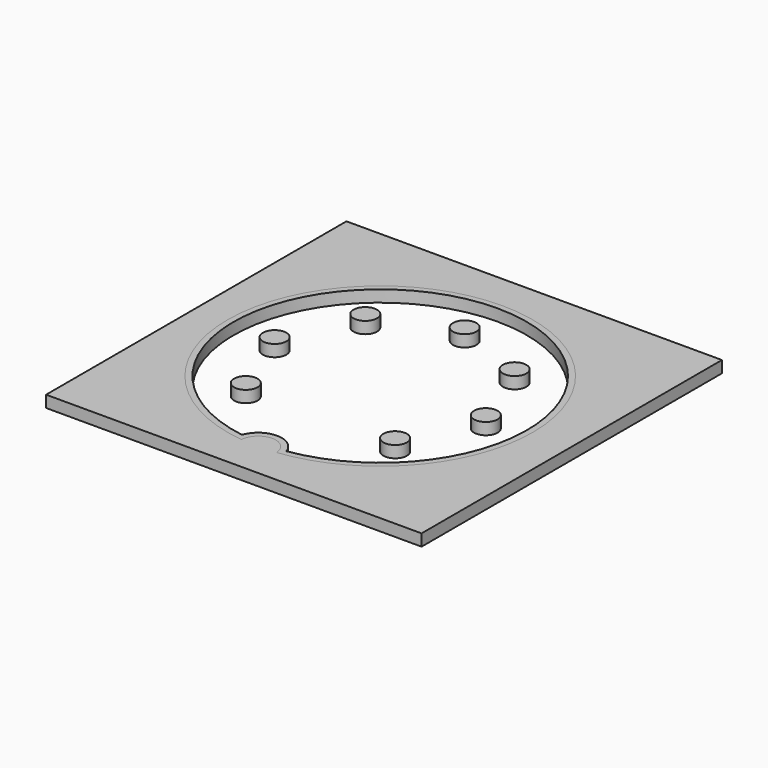
from build123d import *

# Parameters (mm, degrees)
F0_R     = 1
F1_DEPTH = 1
F0_W     = 32
F0_H     = 32
F2_DEPTH = 1


with BuildPart() as f1:
    # F0 (on Top) → F1 (new body)
    with BuildSketch(Plane.XY):
        with Locations((-9.0139002259, -0.0131933517)):
            Circle(F0_R)
    extrude(amount=F1_DEPTH)


with BuildPart() as f1b:
    # F0 (on Top) → F1, piece 2 (new body)
    with BuildSketch(Plane.XY):
        with Locations((-6.3778612566, 6.350767679)):
            Circle(F0_R)
    extrude(amount=F1_DEPTH)


with BuildPart() as f1c:
    # F0 (on Top) → F1, piece 3 (new body)
    with BuildSketch(Plane.XY):
        with Locations((-0.0139002259, 8.9868066483)):
            Circle(F0_R)
    extrude(amount=F1_DEPTH)


with BuildPart() as f1d:
    # F0 (on Top) → F1, piece 4 (new body)
    with BuildSketch(Plane.XY):
        with Locations((6.3500608048, 6.350767679)):
            Circle(F0_R)
    extrude(amount=F1_DEPTH)


with BuildPart() as f1e:
    # F0 (on Top) → F1, piece 5 (new body)
    with BuildSketch(Plane.XY):
        with Locations((8.9860997741, -0.0131933517)):
            Circle(F0_R)
    extrude(amount=F1_DEPTH)


with BuildPart() as f1f:
    # F0 (on Top) → F1, piece 6 (new body)
    with BuildSketch(Plane.XY):
        with Locations((6.3500608048, -6.3771543823)):
            Circle(F0_R)
    extrude(amount=F1_DEPTH)


with BuildPart() as f1g:
    # F0 (on Top) → F1, piece 7 (new body)
    with BuildSketch(Plane.XY):
        with Locations((-6.3778612566, -6.3771543823)):
            Circle(F0_R)
    extrude(amount=F1_DEPTH)


with BuildPart() as f1h:
    # F0 (on Top) → F1, piece 8 (new body)
    with BuildSketch(Plane.XY):
        with BuildLine():
            ThreePointArc((-1.5114018435, -12.9266548901), (-0.0139002259, -11.5131933517), (1.4836013917, -12.9266548901))
            ThreePointArc((1.4836013917, -12.9266548901), (-0.0139002259, 12.9868066483), (-1.5114018435, -12.9266548901))
        make_face()
        with BuildLine():
            ThreePointArc((-1.9073010593, -12.3689625824), (-0.0139002259, 12.4868066483), (1.8795006075, -12.3689625824))
            ThreePointArc((1.8795006075, -12.3689625824), (-0.0139002259, -11.0131933517), (-1.9073010593, -12.3689625824))
        make_face(mode=Mode.SUBTRACT)
    extrude(amount=F1_DEPTH)


with BuildPart() as f2:
    # F0 (on Top) → F2 (new body)
    with BuildSketch(Plane.XY):
        with Locations((0.2982817241, 0)):
            Rectangle(F0_W, F0_H)
        with BuildLine():
            ThreePointArc((-1.5114018435, -12.9266548901), (-0.0139002259, 12.9868066483), (1.4836013917, -12.9266548901))
            ThreePointArc((1.4836013917, -12.9266548901), (-0.0139002259, -11.5131933517), (-1.5114018435, -12.9266548901))
        make_face(mode=Mode.SUBTRACT)
    extrude(amount=F2_DEPTH)


solid = Compound([f1.part, f1b.part, f1c.part, f1d.part, f1e.part, f1f.part, f1g.part, f1h.part, f2.part])
